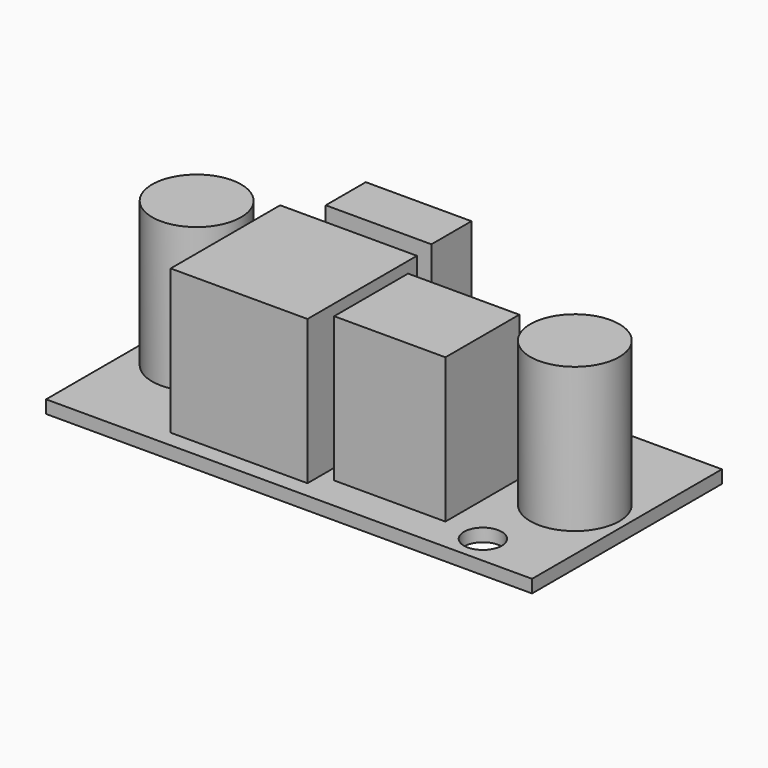
from build123d import *

# Parameters (mm, degrees)
F0_W     = 43.688
F0_H     = 21.336
F1_DEPTH = 1.16
F2_R     = 1.7
F3_DEPTH = 25
F4_R     = 4
F4_W     = 12.3
F4_H     = 12.3
F4_W_2   = 10
F4_H_2   = 8.3
F4_W_3   = 9.5
F4_H_3   = 4.5
F5_DEPTH = 13


with BuildPart() as f1:
    # F0 (on Top) → F1 (new body)
    with BuildSketch(Plane.XY):
        with Locations((21.844, -10.668)):
            Rectangle(F0_W, F0_H)
    extrude(amount=F1_DEPTH)

    # F2 (on face) → F3 (cut)
    with BuildSketch(Plane.XY.offset(1.16)):
        with Locations((37.188, -18.736)):
            Circle(F2_R)
        with Locations((8.7, -2.3)):
            Circle(F2_R)
    extrude(amount=-F3_DEPTH, mode=Mode.SUBTRACT)

    # F4 (on face) → F5 (join)
    with BuildSketch(Plane.XY.offset(1.16)):
        with Locations((5, -10.668)):
            Circle(F4_R)
        with Locations((39, -10.668)):
            Circle(F4_R)
        with Locations((16.15, -13.686)):
            Rectangle(F4_W, F4_H)
        with Locations((28.5, -14.186)):
            Rectangle(F4_W_2, F4_H_2)
        with Locations((17.25, -3.286)):
            Rectangle(F4_W_3, F4_H_3)
    extrude(amount=F5_DEPTH)


solid = f1.part
